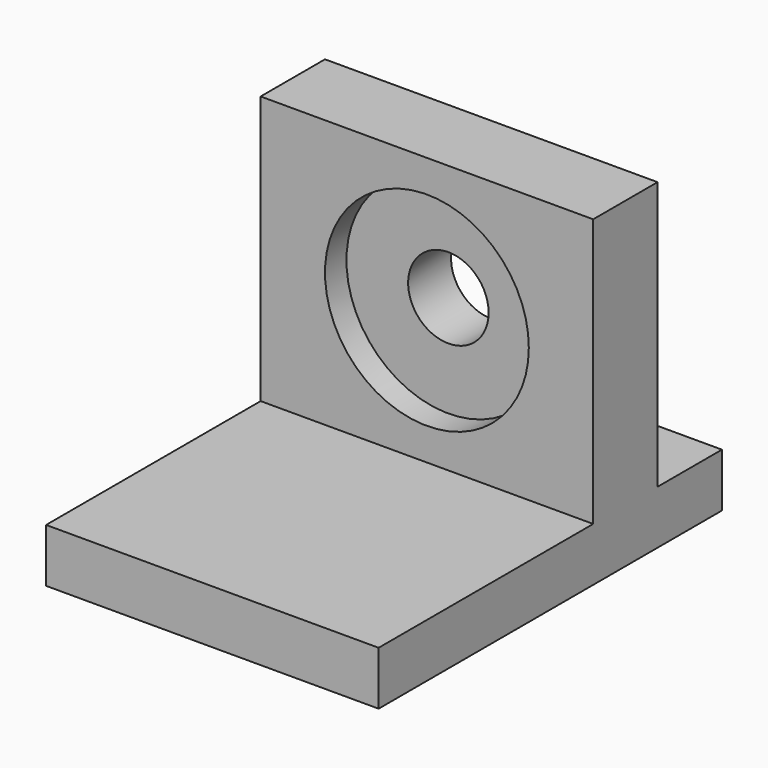
from build123d import *

# Parameters (mm, degrees)
F0_W     = 62
F0_H     = 15
F1_DEPTH = 60
F0_H_2   = 50
F2_DEPTH = 10
F3_R     = 19
F4_DEPTH = 5
F5_R     = 7.5
F6_DEPTH = 25.001


with BuildPart() as f1:
    # F0 (on Top) → F1 (new body)
    with BuildSketch(Plane.XY):
        with Locations((0, 17.5)):
            Rectangle(F0_W, F0_H)
    extrude(amount=F1_DEPTH)

    # F0 (on Top) → F2 (join)
    with BuildSketch(Plane.XY):
        with Locations((0, 32.5)):
            Rectangle(F0_W, F0_H)
        with Locations((0, -15)):
            Rectangle(F0_W, F0_H_2)
    extrude(amount=F2_DEPTH)

    # F3 (on face) → F4 (cut)
    with BuildSketch(Plane.XZ.offset(-10)):
        with Locations((0, 35)):
            Circle(F3_R)
    extrude(amount=-F4_DEPTH, mode=Mode.SUBTRACT)

    # F5 (on face) → F6 (cut, through all)
    with BuildSketch(Plane.XZ.offset(-15)):
        with Locations((0, 35)):
            Circle(F5_R)
    extrude(amount=-F6_DEPTH, mode=Mode.SUBTRACT)


solid = f1.part
